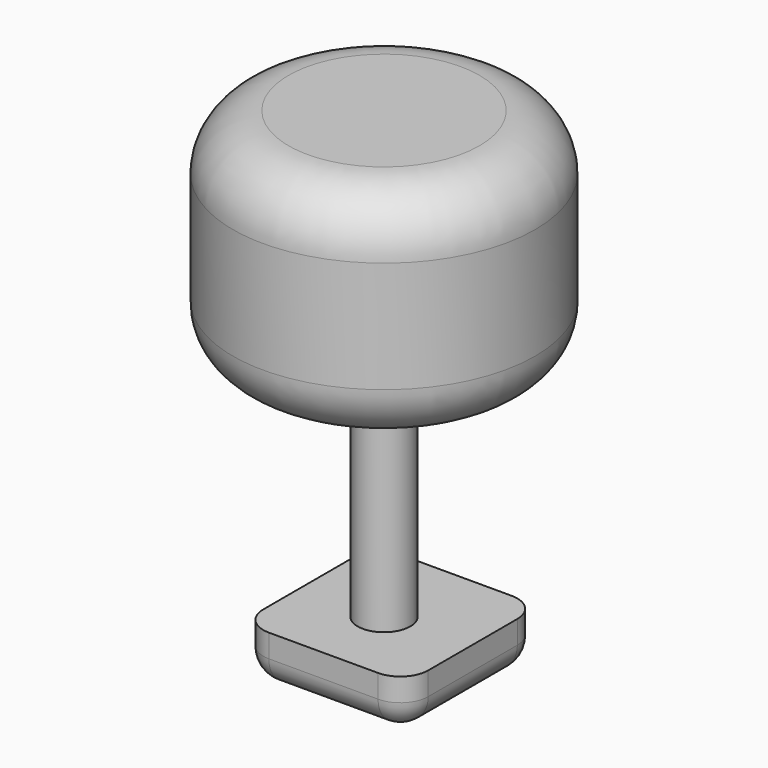
from build123d import *

# Parameters (mm, degrees)
F0_W     = 75.254161
F0_H     = 23.219683
F1_DEPTH = 76.2
F2_R     = 12.016458
F3_DEPTH = 101.6
F4_R     = 68.933228
F5_DEPTH = 101.6
F6_R     = 25.4
F7_R     = 12.7


with BuildPart() as f1:
    # F0 (on Front) → F1 (new body)
    with BuildSketch(Plane.XZ):
        with Locations((0.559511, -43.362062)):
            Rectangle(F0_W, F0_H)
    extrude(amount=F1_DEPTH)

    # F2 (on face) → F3 (join)
    with BuildSketch(Plane.XY.offset(-31.752221)):
        with Locations((0, -40.984146)):
            Circle(F2_R)
    extrude(amount=F3_DEPTH)

    # F4 (on face) → F5 (join)
    with BuildSketch(Plane.XY.offset(69.847779)):
        with Locations((0, -40.984146)):
            Circle(F4_R)
    extrude(amount=F5_DEPTH)

    # F6
    f6_edges = [f1.edges().sort_by_distance(p)[0] for p in [
        (-68.933228, -40.984146, 171.447779),
        (-68.933228, -40.984146, 69.847779),
    ]]
    fillet(f6_edges, radius=F6_R)

    # F7
    f7_edges = [f1.edges().sort_by_distance(p)[0] for p in [
        (38.186591, -76.2, -43.362062),
        (38.186591, 0, -43.362062),
        (-37.06757, -76.2, -43.362062),
        (0.559511, -76.2, -54.971904),
        (38.186591, -38.1, -54.971904),
        (0.559511, 0, -54.971904),
        (-37.06757, -38.1, -54.971904),
        (-37.06757, 0, -43.362062),
    ]]
    fillet(f7_edges, radius=F7_R)


solid = f1.part
